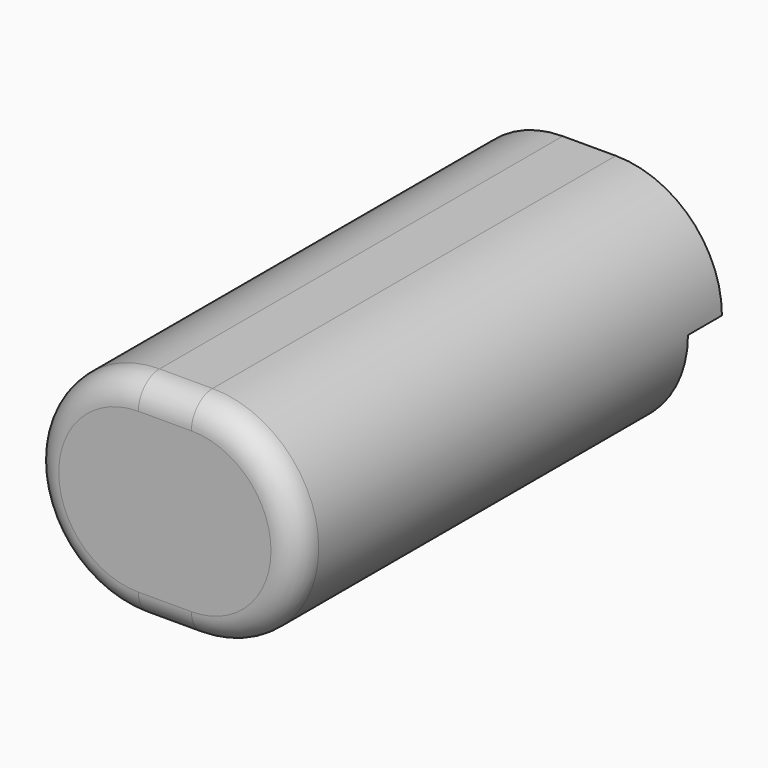
from build123d import *

# Parameters (mm, degrees)
PAD008_DEPTH            = 100
POCKET014_DEPTH         = 97
SKETCH025_W             = 50
SKETCH025_H             = 20
POCKET015_DEPTH         = 8
FILLET001_R             = 5
FILLET002_R             = 5
BODY007_PLACEMENT_ANGLE = 180


with BuildPart() as part:
    # Sketch023 → Pad008 (new body)
    with BuildSketch(Plane.XZ):
        with BuildLine():
            ThreePointArc((-5, 20), (-25, 0), (-5, -20))
            Line((-5, -20), (5, -20))
            ThreePointArc((5, -20), (25, 0), (5, 20))
            Line((5, 20), (-5, 20))
        make_face()
    extrude(amount=PAD008_DEPTH)

    # Sketch024 (on Face6 of Pad008) → Pocket014 (cut)
    with BuildSketch(Plane.XZ.offset(100)):
        with BuildLine():
            ThreePointArc((-5, 17), (-22, 0), (-5, -17))
            Line((-5, -17), (5, -17))
            ThreePointArc((5, -17), (22, 0), (5, 17))
            Line((5, 17), (-5, 17))
        make_face()
    extrude(amount=-POCKET014_DEPTH, mode=Mode.SUBTRACT)

    # Sketch025 (on Face5 of Pocket014) → Pocket015 (cut)
    with BuildSketch(Plane.XZ.offset(100)):
        with Locations((0, -10)):
            Rectangle(SKETCH025_W, SKETCH025_H)
    extrude(amount=-POCKET015_DEPTH, mode=Mode.SUBTRACT)

    # Fillet001
    fillet001_edges = [part.edges().sort_by_distance(p)[0] for p in [
        (-25, 0, 0),
        (0, 0, -20),
        (25, 0, 0),
        (0, 0, 20),
    ]]
    fillet(fillet001_edges, radius=FILLET001_R)

    # Fillet002
    fillet002_edges = [part.edges().sort_by_distance(p)[0] for p in [
        (-22, -3, 0),
        (0, -3, -17),
        (22, -3, 0),
        (0, -3, 17),
    ]]
    fillet(fillet002_edges, radius=FILLET002_R)


with BuildPart() as part_1:
    # Body007 placement: moved
    add(part.part.moved(Location((60, -92.5, 76.5))).rotate(Axis((60, -92.5, 76.5), (0, 0, 1)), BODY007_PLACEMENT_ANGLE))


solid = part_1.part
